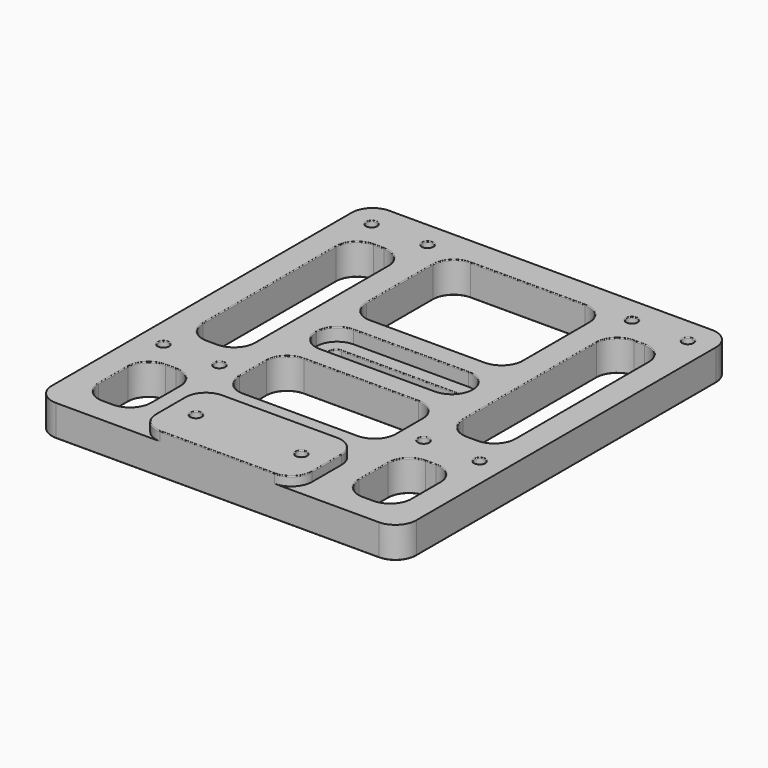
from build123d import *

# Parameters (mm, degrees)
EXTRUDE008_DEPTH  = 7
EXTRUDE009_DEPTH  = 7
CYLINDER014_R     = 2.1
CYLINDER014_DEPTH = 30
CYLINDER_R        = 2.1
CYLINDER_DEPTH    = 30
BOX015_W          = 60
BOX015_H          = 29
BOX015_DEPTH      = 30
FILLET007_R       = 8
BOX007_W          = 60
BOX007_H          = 48
BOX007_DEPTH      = 20
FILLET006_R       = 8
BOX014_W          = 50
BOX014_H          = 5.2
BOX014_DEPTH      = 20
FILLET005_R       = 2.5
BOX013_W          = 60
BOX013_H          = 16
BOX013_DEPTH      = 20
FILLET004_R       = 7.9
BOX008_W          = 20
BOX008_H          = 80
BOX008_DEPTH      = 20
FILLET_R          = 8
BOX010_W          = 20
BOX010_H          = 30
BOX010_DEPTH      = 20
FILLET001_R       = 8
BOX009_W          = 20
BOX009_H          = 80
BOX009_DEPTH      = 20
FILLET002_R       = 8
BOX011_W          = 20
BOX011_H          = 30
BOX011_DEPTH      = 20
FILLET003_R       = 8
CYLINDER007_R     = 2.1
CYLINDER007_DEPTH = 20
CYLINDER008_R     = 2.1
CYLINDER008_DEPTH = 20
CYLINDER009_R     = 2.1
CYLINDER009_DEPTH = 20
CYLINDER010_R     = 2.1
CYLINDER010_DEPTH = 20
CYLINDER011_R     = 2.1
CYLINDER011_DEPTH = 20
CYLINDER012_R     = 2.1
CYLINDER012_DEPTH = 20
CYLINDER013_R     = 2.1
CYLINDER013_DEPTH = 20
EXTRUDE_DEPTH     = 6
EXTRUDE001_DEPTH  = 6
EXTRUDE002_DEPTH  = 6
EXTRUDE003_DEPTH  = 6
EXTRUDE004_DEPTH  = 6
EXTRUDE005_DEPTH  = 6
EXTRUDE006_DEPTH  = 6
EXTRUDE007_DEPTH  = 6
CYLINDER006_R     = 2.1
CYLINDER006_DEPTH = 20
BOX_W             = 140
BOX_H             = 160
BOX_DEPTH         = 12
BOX001_W          = 60
BOX001_H          = 30
BOX001_DEPTH      = 15.5
FILLET008_R       = 8
FILLET009_R       = 8
FILLET010_R       = 0.3
FILLET011_R       = 0.3
FILLET012_R       = 0.3


with BuildPart() as extrude008:
    # Polygon008 → Extrude008 (new body)
    with BuildSketch(Plane.XY):
        Polygon((4, 0), (2, 3.464102), (-2, 3.464102), (-4, 0), (-2, -3.464102), (2, -3.464102), align=None)
    extrude(amount=EXTRUDE008_DEPTH)


with BuildPart() as extrude008_1:
    # Extrude008 placement: moved
    add(extrude008.part.moved(Location((49.75, 15, 0))))


with BuildPart() as extrude009:
    # Polygon009 → Extrude009 (new body)
    with BuildSketch(Plane.XY):
        Polygon((4, 0), (2, 3.464102), (-2, 3.464102), (-4, 0), (-2, -3.464102), (2, -3.464102), align=None)
    extrude(amount=EXTRUDE009_DEPTH)


with BuildPart() as extrude009_1:
    # Extrude009 placement: moved
    add(extrude009.part.moved(Location((90.25, 15, 0))))


with BuildPart() as zylinder001:
    # Cylinder014 → Cylinder014 (new body)
    with BuildSketch(Plane(origin=(90.25, 15, 0), x_dir=(1, 0, 0), z_dir=(0, 0, 1))):
        Circle(CYLINDER014_R)
    extrude(amount=CYLINDER014_DEPTH)


with BuildPart() as zylinder:
    # Cylinder → Cylinder (new body)
    with BuildSketch(Plane(origin=(49.75, 15, 0), x_dir=(1, 0, 0), z_dir=(0, 0, 1))):
        Circle(CYLINDER_R)
    extrude(amount=CYLINDER_DEPTH)


with BuildPart() as fillet007:
    # Box015 → Box015 (new body)
    with BuildSketch(Plane(origin=(40, 40, 0), x_dir=(1, 0, 0), z_dir=(0, 0, 1))):
        with Locations((30, 14.5)):
            Rectangle(BOX015_W, BOX015_H)
    extrude(amount=BOX015_DEPTH)

    # Fillet007
    fillet007_edges = [fillet007.edges().sort_by_distance(p)[0] for p in [
        (40, 40, 15),
        (40, 69, 15),
        (100, 40, 15),
        (100, 69, 15),
    ]]
    fillet(fillet007_edges, radius=FILLET007_R)


with BuildPart() as fillet006:
    # Box007 → Box007 (new body)
    with BuildSketch(Plane(origin=(40, 101, 0), x_dir=(1, 0, 0), z_dir=(0, 0, 1))):
        with Locations((30, 24)):
            Rectangle(BOX007_W, BOX007_H)
    extrude(amount=BOX007_DEPTH)

    # Fillet006
    fillet006_edges = [fillet006.edges().sort_by_distance(p)[0] for p in [
        (40, 101, 10),
        (40, 149, 10),
        (100, 101, 10),
        (100, 149, 10),
    ]]
    fillet(fillet006_edges, radius=FILLET006_R)


with BuildPart() as fillet005:
    # Box014 → Box014 (new body)
    with BuildSketch(Plane(origin=(45, 82.4, 0), x_dir=(1, 0, 0), z_dir=(0, 0, 1))):
        with Locations((25, 2.6)):
            Rectangle(BOX014_W, BOX014_H)
    extrude(amount=BOX014_DEPTH)

    # Fillet005
    fillet005_edges = [fillet005.edges().sort_by_distance(p)[0] for p in [
        (45, 82.4, 10),
        (45, 87.6, 10),
        (95, 82.4, 10),
        (95, 87.6, 10),
    ]]
    fillet(fillet005_edges, radius=FILLET005_R)


with BuildPart() as fillet004:
    # Box013 → Box013 (new body)
    with BuildSketch(Plane(origin=(40, 77, 7), x_dir=(1, 0, 0), z_dir=(0, 0, 1))):
        with Locations((30, 8)):
            Rectangle(BOX013_W, BOX013_H)
    extrude(amount=BOX013_DEPTH)

    # Fillet004
    fillet004_edges = [fillet004.edges().sort_by_distance(p)[0] for p in [
        (40, 77, 17),
        (40, 93, 17),
        (100, 77, 17),
        (100, 93, 17),
    ]]
    fillet(fillet004_edges, radius=FILLET004_R)


with BuildPart() as fillet_body:
    # Box008 → Box008 (new body)
    with BuildSketch(Plane(origin=(10, 60, 0), x_dir=(1, 0, 0), z_dir=(0, 0, 1))):
        with Locations((10, 40)):
            Rectangle(BOX008_W, BOX008_H)
    extrude(amount=BOX008_DEPTH)

    # Fillet
    fillet_edges = [fillet_body.edges().sort_by_distance(p)[0] for p in [
        (10, 60, 10),
        (10, 140, 10),
        (30, 60, 10),
        (30, 140, 10),
    ]]
    fillet(fillet_edges, radius=FILLET_R)


with BuildPart() as fillet001:
    # Box010 → Box010 (new body)
    with BuildSketch(Plane(origin=(10, 10, 0), x_dir=(1, 0, 0), z_dir=(0, 0, 1))):
        with Locations((10, 15)):
            Rectangle(BOX010_W, BOX010_H)
    extrude(amount=BOX010_DEPTH)

    # Fillet001
    fillet001_edges = [fillet001.edges().sort_by_distance(p)[0] for p in [
        (10, 10, 10),
        (10, 40, 10),
        (30, 10, 10),
        (30, 40, 10),
    ]]
    fillet(fillet001_edges, radius=FILLET001_R)


with BuildPart() as fillet002:
    # Box009 → Box009 (new body)
    with BuildSketch(Plane(origin=(110, 60, 0), x_dir=(1, 0, 0), z_dir=(0, 0, 1))):
        with Locations((10, 40)):
            Rectangle(BOX009_W, BOX009_H)
    extrude(amount=BOX009_DEPTH)

    # Fillet002
    fillet002_edges = [fillet002.edges().sort_by_distance(p)[0] for p in [
        (110, 60, 10),
        (110, 140, 10),
        (130, 60, 10),
        (130, 140, 10),
    ]]
    fillet(fillet002_edges, radius=FILLET002_R)


with BuildPart() as fillet003:
    # Box011 → Box011 (new body)
    with BuildSketch(Plane(origin=(110, 10, 0), x_dir=(1, 0, 0), z_dir=(0, 0, 1))):
        with Locations((10, 15)):
            Rectangle(BOX011_W, BOX011_H)
    extrude(amount=BOX011_DEPTH)

    # Fillet003
    fillet003_edges = [fillet003.edges().sort_by_distance(p)[0] for p in [
        (110, 10, 10),
        (110, 40, 10),
        (130, 10, 10),
        (130, 40, 10),
    ]]
    fillet(fillet003_edges, radius=FILLET003_R)


with BuildPart() as bohrung002:
    # Cylinder007 → Cylinder007 (new body)
    with BuildSketch(Plane(origin=(9.25, 150, 0), x_dir=(1, 0, 0), z_dir=(0, 0, 1))):
        Circle(CYLINDER007_R)
    extrude(amount=CYLINDER007_DEPTH)


with BuildPart() as bohrung003:
    # Cylinder008 → Cylinder008 (new body)
    with BuildSketch(Plane(origin=(30.75, 50, 0), x_dir=(1, 0, 0), z_dir=(0, 0, 1))):
        Circle(CYLINDER008_R)
    extrude(amount=CYLINDER008_DEPTH)


with BuildPart() as bohrung004:
    # Cylinder009 → Cylinder009 (new body)
    with BuildSketch(Plane(origin=(30.75, 150, 0), x_dir=(1, 0, 0), z_dir=(0, 0, 1))):
        Circle(CYLINDER009_R)
    extrude(amount=CYLINDER009_DEPTH)


with BuildPart() as bohrung005:
    # Cylinder010 → Cylinder010 (new body)
    with BuildSketch(Plane(origin=(130.75, 150, 0), x_dir=(1, 0, 0), z_dir=(0, 0, 1))):
        Circle(CYLINDER010_R)
    extrude(amount=CYLINDER010_DEPTH)


with BuildPart() as bohrung006:
    # Cylinder011 → Cylinder011 (new body)
    with BuildSketch(Plane(origin=(109.25, 150, 0), x_dir=(1, 0, 0), z_dir=(0, 0, 1))):
        Circle(CYLINDER011_R)
    extrude(amount=CYLINDER011_DEPTH)


with BuildPart() as bohrung007:
    # Cylinder012 → Cylinder012 (new body)
    with BuildSketch(Plane(origin=(109.25, 50, 0), x_dir=(1, 0, 0), z_dir=(0, 0, 1))):
        Circle(CYLINDER012_R)
    extrude(amount=CYLINDER012_DEPTH)


with BuildPart() as bohrung008:
    # Cylinder013 → Cylinder013 (new body)
    with BuildSketch(Plane(origin=(130.75, 50, 0), x_dir=(1, 0, 0), z_dir=(0, 0, 1))):
        Circle(CYLINDER013_R)
    extrude(amount=CYLINDER013_DEPTH)


with BuildPart() as mutter001:
    # Polygon → Extrude (new body)
    with BuildSketch(Plane.XY):
        Polygon((4, 0), (2, 3.464102), (-2, 3.464102), (-4, 0), (-2, -3.464102), (2, -3.464102), align=None)
    extrude(amount=EXTRUDE_DEPTH)


with BuildPart() as mutter001_1:
    # Extrude placement: moved
    add(mutter001.part.moved(Location((9.25, 50, 0))))


with BuildPart() as mutter002:
    # Polygon001 → Extrude001 (new body)
    with BuildSketch(Plane.XY):
        Polygon((4, 0), (2, 3.464102), (-2, 3.464102), (-4, 0), (-2, -3.464102), (2, -3.464102), align=None)
    extrude(amount=EXTRUDE001_DEPTH)


with BuildPart() as mutter002_1:
    # Extrude001 placement: moved
    add(mutter002.part.moved(Location((9.25, 150, 0))))


with BuildPart() as mutter003:
    # Polygon002 → Extrude002 (new body)
    with BuildSketch(Plane.XY):
        Polygon((4, 0), (2, 3.464102), (-2, 3.464102), (-4, 0), (-2, -3.464102), (2, -3.464102), align=None)
    extrude(amount=EXTRUDE002_DEPTH)


with BuildPart() as mutter003_1:
    # Extrude002 placement: moved
    add(mutter003.part.moved(Location((30.75, 50, 0))))


with BuildPart() as mutter004:
    # Polygon003 → Extrude003 (new body)
    with BuildSketch(Plane.XY):
        Polygon((4, 0), (2, 3.464102), (-2, 3.464102), (-4, 0), (-2, -3.464102), (2, -3.464102), align=None)
    extrude(amount=EXTRUDE003_DEPTH)


with BuildPart() as mutter004_1:
    # Extrude003 placement: moved
    add(mutter004.part.moved(Location((30.75, 150, 0))))


with BuildPart() as mutter005:
    # Polygon004 → Extrude004 (new body)
    with BuildSketch(Plane.XY):
        Polygon((4, 0), (2, 3.464102), (-2, 3.464102), (-4, 0), (-2, -3.464102), (2, -3.464102), align=None)
    extrude(amount=EXTRUDE004_DEPTH)


with BuildPart() as mutter005_1:
    # Extrude004 placement: moved
    add(mutter005.part.moved(Location((130.75, 50, 0))))


with BuildPart() as mutter006:
    # Polygon005 → Extrude005 (new body)
    with BuildSketch(Plane.XY):
        Polygon((4, 0), (2, 3.464102), (-2, 3.464102), (-4, 0), (-2, -3.464102), (2, -3.464102), align=None)
    extrude(amount=EXTRUDE005_DEPTH)


with BuildPart() as mutter006_1:
    # Extrude005 placement: moved
    add(mutter006.part.moved(Location((130.75, 150, 0))))


with BuildPart() as mutter007:
    # Polygon006 → Extrude006 (new body)
    with BuildSketch(Plane.XY):
        Polygon((4, 0), (2, 3.464102), (-2, 3.464102), (-4, 0), (-2, -3.464102), (2, -3.464102), align=None)
    extrude(amount=EXTRUDE006_DEPTH)


with BuildPart() as mutter007_1:
    # Extrude006 placement: moved
    add(mutter007.part.moved(Location((109.25, 150, 0))))


with BuildPart() as mutter008:
    # Polygon007 → Extrude007 (new body)
    with BuildSketch(Plane.XY):
        Polygon((4, 0), (2, 3.464102), (-2, 3.464102), (-4, 0), (-2, -3.464102), (2, -3.464102), align=None)
    extrude(amount=EXTRUDE007_DEPTH)


with BuildPart() as mutter008_1:
    # Extrude007 placement: moved
    add(mutter008.part.moved(Location((109.25, 50, 0))))


with BuildPart() as bohrung001:
    # Cylinder006 → Cylinder006 (new body)
    with BuildSketch(Plane(origin=(9.25, 50, 0), x_dir=(1, 0, 0), z_dir=(0, 0, 1))):
        Circle(CYLINDER006_R)
    extrude(amount=CYLINDER006_DEPTH)


with BuildPart() as cut023:
    # Box → Box (new body)
    with BuildSketch(Plane.XY):
        with Locations((70, 80)):
            Rectangle(BOX_W, BOX_H)
    extrude(amount=BOX_DEPTH)

    # Cut: cut Bohrung001
    add(bohrung001.part, mode=Mode.SUBTRACT)

    # Cut001: cut Mutter008
    add(mutter008_1.part, mode=Mode.SUBTRACT)

    # Cut002: cut Mutter007
    add(mutter007_1.part, mode=Mode.SUBTRACT)

    # Cut003: cut Mutter006
    add(mutter006_1.part, mode=Mode.SUBTRACT)

    # Cut004: cut Mutter005
    add(mutter005_1.part, mode=Mode.SUBTRACT)

    # Cut005: cut Mutter004
    add(mutter004_1.part, mode=Mode.SUBTRACT)

    # Cut006: cut Mutter003
    add(mutter003_1.part, mode=Mode.SUBTRACT)

    # Cut007: cut Mutter002
    add(mutter002_1.part, mode=Mode.SUBTRACT)

    # Cut008: cut Mutter001
    add(mutter001_1.part, mode=Mode.SUBTRACT)

    # Cut009: cut Bohrung008
    add(bohrung008.part, mode=Mode.SUBTRACT)

    # Cut010: cut Bohrung007
    add(bohrung007.part, mode=Mode.SUBTRACT)

    # Cut011: cut Bohrung006
    add(bohrung006.part, mode=Mode.SUBTRACT)

    # Cut012: cut Bohrung005
    add(bohrung005.part, mode=Mode.SUBTRACT)

    # Cut013: cut Bohrung004
    add(bohrung004.part, mode=Mode.SUBTRACT)

    # Cut014: cut Bohrung003
    add(bohrung003.part, mode=Mode.SUBTRACT)

    # Cut015: cut Bohrung002
    add(bohrung002.part, mode=Mode.SUBTRACT)

    # Cut016: cut Fillet003
    add(fillet003.part, mode=Mode.SUBTRACT)

    # Cut017: cut Fillet002
    add(fillet002.part, mode=Mode.SUBTRACT)

    # Cut018: cut Fillet001
    add(fillet001.part, mode=Mode.SUBTRACT)

    # Cut019: cut Fillet body
    add(fillet_body.part, mode=Mode.SUBTRACT)

    # Cut020: cut Fillet004
    add(fillet004.part, mode=Mode.SUBTRACT)

    # Cut021: cut Fillet005
    add(fillet005.part, mode=Mode.SUBTRACT)

    # Cut022: cut Fillet006
    add(fillet006.part, mode=Mode.SUBTRACT)

    # Cut023: cut Fillet007
    add(fillet007.part, mode=Mode.SUBTRACT)


with BuildPart() as fillet012:
    # Box001 → Box001 (new body)
    with BuildSketch(Plane(origin=(40, 0, 0), x_dir=(1, 0, 0), z_dir=(0, 0, 1))):
        with Locations((30, 15)):
            Rectangle(BOX001_W, BOX001_H)
    extrude(amount=BOX001_DEPTH)

    # Fillet008
    fillet008_edges = [fillet012.edges().sort_by_distance(p)[0] for p in [
        (40, 0, 7.75),
        (40, 30, 7.75),
        (100, 0, 7.75),
        (100, 30, 7.75),
    ]]
    fillet(fillet008_edges, radius=FILLET008_R)

    # Fusion: union Cut023
    add(cut023.part)

    # Cut024: cut Zylinder
    add(zylinder.part, mode=Mode.SUBTRACT)

    # Cut025: cut Zylinder001
    add(zylinder001.part, mode=Mode.SUBTRACT)

    # Cut026: cut Extrude009
    add(extrude009_1.part, mode=Mode.SUBTRACT)

    # Cut027: cut Extrude008
    add(extrude008_1.part, mode=Mode.SUBTRACT)

    # Fillet009
    fillet009_edges = [fillet012.edges().sort_by_distance(p)[0] for p in [
        (140, 160, 6),
        (0, 160, 6),
        (140, 0, 6),
        (0, 0, 6),
    ]]
    fillet(fillet009_edges, radius=FILLET009_R)

    # Fillet010
    fillet010_edges = [fillet012.edges().sort_by_distance(p)[0] for p in [
        (70, 160, 0),
        (2.343146, 157.656854, 0),
        (137.656854, 157.656854, 0),
        (0, 80, 0),
        (140, 80, 0),
        (2.343146, 2.343146, 0),
        (137.656854, 2.343146, 0),
        (28, 0, 0),
        (112, 0, 0),
        (107.15, 50, 6),
        (112.343146, 12.343146, 0),
        (110, 25, 0),
        (120, 10, 0),
        (112.343146, 37.656854, 0),
        (127.656854, 12.343146, 0),
        (120, 40, 0),
        (130, 25, 0),
        (127.656854, 37.656854, 0),
        (42.343146, 42.343146, 0),
        (40, 54.5, 0),
        (70, 40, 0),
        (42.343146, 66.656854, 0),
        (97.656854, 42.343146, 0),
        (70, 69, 0),
        (100, 54.5, 0),
        (97.656854, 66.656854, 0),
        (28.65, 50, 6),
        (12.343146, 12.343146, 0),
        (10, 25, 0),
        (20, 10, 0),
        (12.343146, 37.656854, 0),
        (27.656854, 12.343146, 0),
        (20, 40, 0),
        (30, 25, 0),
        (27.656854, 37.656854, 0),
        (128.65, 50, 6),
        (7.15, 50, 6),
        (112.343146, 62.343146, 0),
        (110, 100, 0),
        (120, 60, 0),
        (112.343146, 137.656854, 0),
        (127.656854, 62.343146, 0),
        (120, 140, 0),
        (130, 100, 0),
        (127.656854, 137.656854, 0),
        (12.343146, 62.343146, 0),
        (10, 100, 0),
        (20, 60, 0),
        (12.343146, 137.656854, 0),
        (27.656854, 62.343146, 0),
        (20, 140, 0),
        (30, 100, 0),
        (27.656854, 137.656854, 0),
        (128.65, 150, 6),
        (107.15, 150, 6),
        (42.343146, 103.343146, 0),
        (40, 125, 0),
        (70, 101, 0),
        (42.343146, 146.656854, 0),
        (97.656854, 103.343146, 0),
        (70, 149, 0),
        (100, 125, 0),
        (97.656854, 146.656854, 0),
        (7.15, 150, 6),
        (28.65, 150, 6),
        (133.75, 151.732051, 0),
        (133.75, 148.267949, 0),
        (130.75, 153.464102, 0),
        (130.75, 146.535898, 0),
        (127.75, 151.732051, 0),
        (127.75, 148.267949, 0),
        (112.25, 151.732051, 0),
        (112.25, 148.267949, 0),
        (109.25, 153.464102, 0),
        (109.25, 146.535898, 0),
        (106.25, 151.732051, 0),
        (106.25, 148.267949, 0),
        (133.75, 51.732051, 0),
        (133.75, 48.267949, 0),
        (130.75, 53.464102, 0),
        (130.75, 46.535898, 0),
        (127.75, 51.732051, 0),
        (127.75, 48.267949, 0),
        (45.732233, 83.132233, 0),
        (45, 85, 0),
        (70, 82.4, 0),
        (45.732233, 86.867767, 0),
        (94.267767, 83.132233, 0),
        (70, 87.6, 0),
        (95, 85, 0),
        (94.267767, 86.867767, 0),
        (12.25, 151.732051, 0),
        (12.25, 148.267949, 0),
        (9.25, 153.464102, 0),
        (9.25, 146.535898, 0),
        (6.25, 151.732051, 0),
        (6.25, 148.267949, 0),
        (33.75, 151.732051, 0),
        (33.75, 148.267949, 0),
        (30.75, 153.464102, 0),
        (30.75, 146.535898, 0),
        (27.75, 151.732051, 0),
        (27.75, 148.267949, 0),
        (33.75, 51.732051, 0),
        (33.75, 48.267949, 0),
        (30.75, 53.464102, 0),
        (30.75, 46.535898, 0),
        (27.75, 51.732051, 0),
        (27.75, 48.267949, 0),
        (12.25, 51.732051, 0),
        (12.25, 48.267949, 0),
        (9.25, 53.464102, 0),
        (9.25, 46.535898, 0),
        (6.25, 51.732051, 0),
        (6.25, 48.267949, 0),
        (112.25, 51.732051, 0),
        (112.25, 48.267949, 0),
        (109.25, 53.464102, 0),
        (109.25, 46.535898, 0),
        (106.25, 51.732051, 0),
        (106.25, 48.267949, 0),
        (70, 0, 0),
        (52.75, 16.732051, 0),
        (49.75, 18.464102, 0),
        (46.75, 16.732051, 0),
        (46.75, 13.267949, 0),
        (49.75, 11.535898, 0),
        (52.75, 13.267949, 0),
        (93.25, 16.732051, 0),
        (93.25, 13.267949, 0),
        (90.25, 18.464102, 0),
        (90.25, 11.535898, 0),
        (87.25, 16.732051, 0),
        (87.25, 13.267949, 0),
        (47.65, 15, 7),
        (88.15, 15, 7),
    ]]
    fillet(fillet010_edges, radius=FILLET010_R)

    # Fillet011
    fillet011_edges = [fillet012.edges().sort_by_distance(p)[0] for p in [
        (107.15, 50, 12),
        (112.343146, 12.343146, 12),
        (110, 25, 12),
        (120, 10, 12),
        (112.343146, 37.656854, 12),
        (127.656854, 12.343146, 12),
        (120, 40, 12),
        (130, 25, 12),
        (127.656854, 37.656854, 12),
        (42.343146, 42.343146, 12),
        (40, 54.5, 12),
        (70, 40, 12),
        (42.343146, 66.656854, 12),
        (97.656854, 42.343146, 12),
        (70, 69, 12),
        (100, 54.5, 12),
        (97.656854, 66.656854, 12),
        (28.65, 50, 12),
        (12.343146, 12.343146, 12),
        (10, 25, 12),
        (20, 10, 12),
        (12.343146, 37.656854, 12),
        (27.656854, 12.343146, 12),
        (20, 40, 12),
        (30, 25, 12),
        (27.656854, 37.656854, 12),
        (128.65, 50, 12),
        (7.15, 50, 12),
        (112.343146, 62.343146, 12),
        (110, 100, 12),
        (120, 60, 12),
        (112.343146, 137.656854, 12),
        (127.656854, 62.343146, 12),
        (120, 140, 12),
        (130, 100, 12),
        (127.656854, 137.656854, 12),
        (42.313856, 79.313856, 12),
        (40, 85, 12),
        (70, 77, 12),
        (42.313856, 90.686144, 12),
        (97.686144, 79.313856, 12),
        (70, 93, 12),
        (100, 85, 12),
        (97.686144, 90.686144, 12),
        (12.343146, 62.343146, 12),
        (10, 100, 12),
        (20, 60, 12),
        (12.343146, 137.656854, 12),
        (27.656854, 62.343146, 12),
        (20, 140, 12),
        (30, 100, 12),
        (27.656854, 137.656854, 12),
        (128.65, 150, 12),
        (107.15, 150, 12),
        (42.343146, 103.343146, 12),
        (40, 125, 12),
        (70, 101, 12),
        (42.343146, 146.656854, 12),
        (97.656854, 103.343146, 12),
        (70, 149, 12),
        (100, 125, 12),
        (97.656854, 146.656854, 12),
        (7.15, 150, 12),
        (28.65, 150, 12),
        (45.732233, 83.132233, 7),
        (70, 82.4, 7),
        (94.267767, 83.132233, 7),
        (95, 85, 7),
        (94.267767, 86.867767, 7),
        (70, 87.6, 7),
        (45.732233, 86.867767, 7),
        (45, 85, 7),
    ]]
    fillet(fillet011_edges, radius=FILLET011_R)

    # Fillet012
    fillet012_edges = [fillet012.edges().sort_by_distance(p)[0] for p in [
        (42.343146, 2.343146, 15.5),
        (97.656854, 2.343146, 15.5),
        (40, 15, 15.5),
        (100, 15, 15.5),
        (42.343146, 27.656854, 15.5),
        (97.656854, 27.656854, 15.5),
        (70, 30, 15.5),
        (70, 0, 15.5),
        (47.65, 15, 15.5),
        (88.15, 15, 15.5),
    ]]
    fillet(fillet012_edges, radius=FILLET012_R)


solid = fillet012.part
